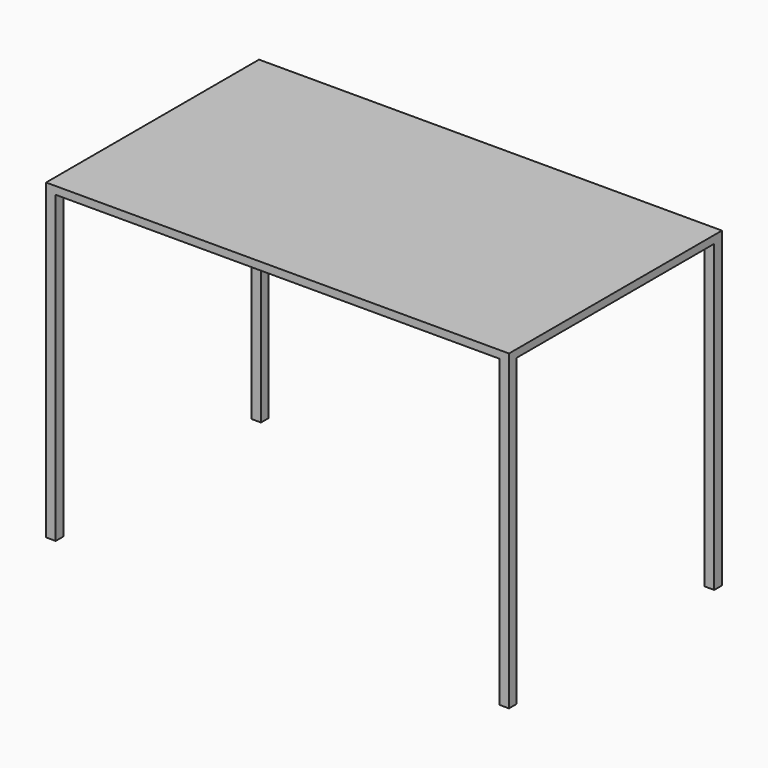
from build123d import *

# Parameters (mm, degrees)
F0_W     = 1200
F0_H     = 690
F1_DEPTH = 20
F2_W     = 25
F2_H     = 25
F3_DEPTH = 790


with BuildPart() as f1:
    # F0 (on Top) → F1 (new body)
    with BuildSketch(Plane.XY):
        Rectangle(F0_W, F0_H)
    extrude(amount=-F1_DEPTH)

    # F2 (on face) → F3 (join)
    with BuildSketch(Plane(origin=(0, 0, -20), x_dir=(1, 0, 0), z_dir=(0, 0, -1))):
        with Locations((587.5, 332.5)):
            Rectangle(F2_W, F2_H)
        with Locations((-587.5, 332.5)):
            Rectangle(F2_W, F2_H)
        with Locations((587.5, -332.5)):
            Rectangle(F2_W, F2_H)
        with Locations((-587.5, -332.5)):
            Rectangle(F2_W, F2_H)
    extrude(amount=F3_DEPTH)


solid = f1.part
